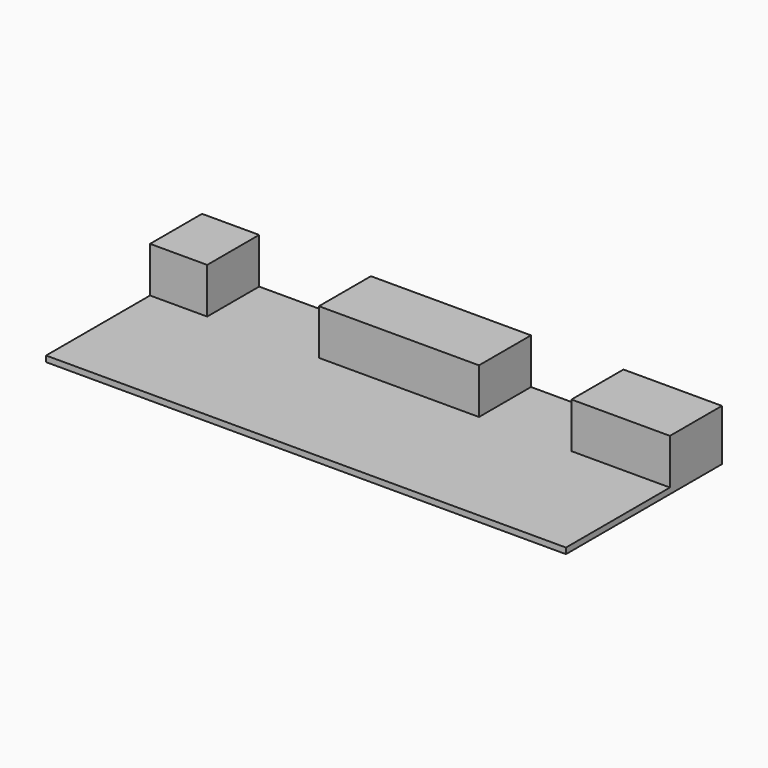
from build123d import *

# Parameters (mm, degrees)
F0_W     = 1600
F0_H     = 600
F1_DEPTH = 18
F2_W     = 302.996802
F2_H     = 200
F2_W_2   = 492.690444
F2_W_3   = 175.781536
F3_DEPTH = 140


with BuildPart() as f1:
    # F0 (on Top) → F1 (new body)
    with BuildSketch(Plane.XY):
        Rectangle(F0_W, F0_H)
    extrude(amount=F1_DEPTH)

    # F2 (on face) → F3 (join)
    with BuildSketch(Plane.XY.offset(18)):
        with Locations((648.501599, 200)):
            Rectangle(F2_W, F2_H)
        with Locations((-33.959925, 200)):
            Rectangle(F2_W_2, F2_H)
        with Locations((-712.109232, 200)):
            Rectangle(F2_W_3, F2_H)
    extrude(amount=F3_DEPTH)


solid = f1.part
